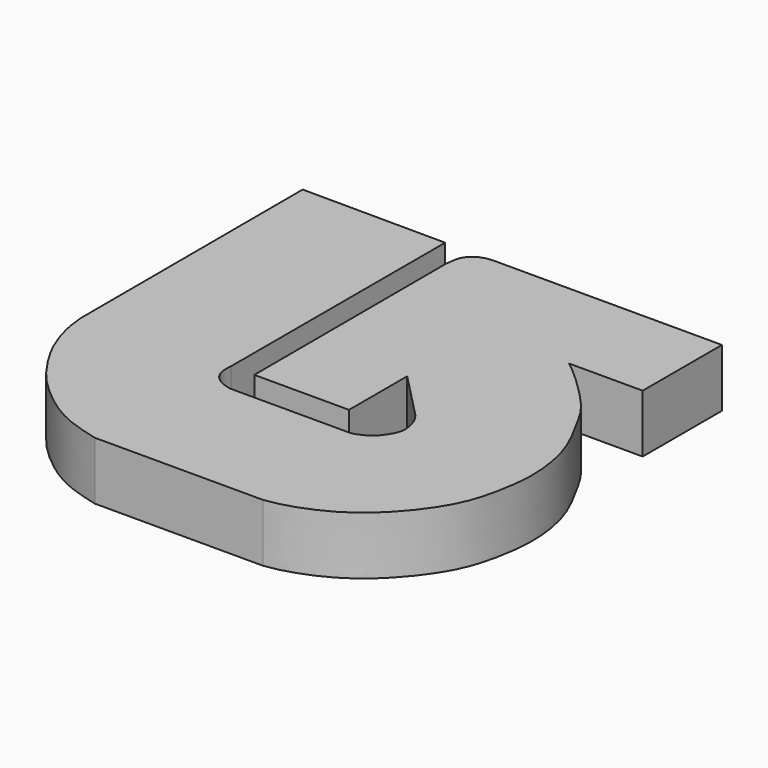
from build123d import *

# Parameters (mm, degrees)
F1_DEPTH = 5


with BuildPart() as f1:
    # F0 (on Top) → F1 (new body)
    with BuildSketch(Plane.XY):
        with BuildLine():
            add(Edge.make_bspline(
                [(11.2681556493, 28.7365261465), (7.1590700342, 28.75634407), (3.0499844191, 28.7761619935), (-1.059101196, 28.795979917)],
                knots=[0, 0, 0, 0, 12.3274002158, 12.3274002158, 12.3274002158, 12.3274002158], degree=3))
            add(Edge.make_bspline(
                [(-1.059101196, 28.795979917), (-1.0446740392, 20.81776876), (-1.0302468824, 12.839557603), (-1.0158197256, 4.861346446)],
                knots=[0, 0, 0, 0, 23.9346726044, 23.9346726044, 23.9346726044, 23.9346726044], degree=3))
            add(Edge.make_bspline(
                [(-1.0158197256, 4.861346446), (-0.962558965, 4.2700737976), (-0.841821032, 2.929705455), (0.1625473106, 0.0673154262), (1.7097202715, -2.3059018854), (2.9855736006, -3.9659866784), (5.5610261871, -6.2075717458), (8.0077108697, -7.5234327243), (9.755875593, -7.9767886526), (10.6165260077, -8.1999832764)],
                knots=[0, 0, 0, 0, 0.1208776861, 0.2740201567, 0.4212126096, 0.5488000736, 0.7093969023, 0.8569312873, 1, 1, 1, 1], degree=3))
            add(Edge.make_bspline(
                [(10.6165260077, -8.1999832764), (15.4520521561, -8.1999832764), (20.2875783046, -8.1999832764), (25.1231044531, -8.1999832764)],
                knots=[0, 0, 0, 0, 14.5065784454, 14.5065784454, 14.5065784454, 14.5065784454], degree=3))
            add(Edge.make_bspline(
                [(25.1231044531, -8.1999832764), (25.6745743252, -8.1126009565), (27.0031296821, -7.9020867379), (30.4249550186, -6.5067364992), (33.1441534381, -4.1048236251), (34.9744057878, -1.7348633844), (36.270448498, 0.6652028925), (36.9714622763, 4.1696584768), (37.0702560122, 6.4734598968), (36.7680843684, 8.9010056191), (36.0185178402, 11.247972559), (34.56180813, 13.8198857026), (33.505189661, 15.8938603551), (30.0097325593, 19.2571510261), (29.1015407434, 19.9457075791), (28.7735499442, 20.1943777502)],
                knots=[0, 0, 0, 0, 0.0623032487, 0.1500958058, 0.2384901964, 0.3170738428, 0.3931542584, 0.479330684, 0.5497063894, 0.6202997706, 0.6930755045, 0.7703813003, 0.8432275764, 0.943382101, 1, 1, 1, 1], degree=3))
            add(Edge.make_bspline(
                [(28.7735499442, 20.1943777502), (30.8920691411, 20.1943777502), (33.010588338, 20.1943777502), (35.1291075349, 20.1943777502)],
                knots=[0, 0, 0, 0, 6.3555575907, 6.3555575907, 6.3555575907, 6.3555575907], degree=3))
            add(Edge.make_bspline(
                [(35.1291075349, 20.1943777502), (35.1291075349, 23.0417605489), (35.1291075349, 25.8891433477), (35.1291075349, 28.7365261465)],
                knots=[0, 0, 0, 0, 8.5421483964, 8.5421483964, 8.5421483964, 8.5421483964], degree=3))
            add(Edge.make_bspline(
                [(35.1291075349, 28.7365261465), (28.5597552235, 28.7365261465), (21.9904029121, 28.7365261465), (15.4210506007, 28.7365261465)],
                knots=[0, 0, 0, 0, 19.7080569342, 19.7080569342, 19.7080569342, 19.7080569342], degree=3))
            add(Edge.make_bspline(
                [(15.4210506007, 28.7365261465), (15.2557474204, 28.7248080838), (14.9013852559, 28.6996879497), (14.2492396547, 28.4997481494), (13.7238917077, 28.0605445077), (13.356028905, 27.5208581891), (13.276128959, 26.7729025691), (13.2297091186, 26.338359341)],
                knots=[0, 0, 0, 0, 0.1694404778, 0.3632313325, 0.5556819896, 0.7418625151, 1, 1, 1, 1], degree=3))
            add(Edge.make_bspline(
                [(13.2297091186, 26.338359341), (13.2451823987, 19.4470849819), (13.2606556788, 12.5558106229), (13.276128959, 5.6645362638)],
                knots=[0, 0, 0, 0, 20.6738751914, 20.6738751914, 20.6738751914, 20.6738751914], degree=3))
            add(Edge.make_bspline(
                [(13.276128959, 5.6645362638), (15.9967516388, 5.6645362638), (18.7173743186, 5.6645362638), (21.4379969984, 5.6645362638)],
                knots=[0, 0, 0, 0, 8.1618680395, 8.1618680395, 8.1618680395, 8.1618680395], degree=3))
            add(Edge.make_bspline(
                [(21.4379969984, 5.6645362638), (21.4379969984, 7.755285129), (21.4379969984, 9.8460339941), (21.4379969984, 11.9367828593)],
                knots=[0, 0, 0, 0, 6.2722465955, 6.2722465955, 6.2722465955, 6.2722465955], degree=3))
            add(Edge.make_bspline(
                [(21.4379969984, 11.9367828593), (22.772507742, 10.5662041654), (24.1070184857, 9.1956254716), (25.4415292293, 7.8250467777)],
                knots=[0, 0, 0, 0, 5.7388713113, 5.7388713113, 5.7388713113, 5.7388713113], degree=3))
            add(Edge.make_bspline(
                [(25.4415292293, 7.8250467777), (25.5297276514, 7.7035809656), (25.7107018832, 7.4543454181), (25.946449318, 6.9992047008), (26.0458302499, 6.5762286293), (26.1669398581, 6.136626052), (26.1879899528, 5.4638606404), (25.9367242281, 4.8486600531), (25.4728523647, 4.1185161554), (24.9385585101, 3.6122505365), (24.4727554455, 3.3847876337), (23.9721447658, 3.1393439998), (23.7195279791, 3.1038511305), (23.6061308533, 3.0879187398)],
                knots=[0, 0, 0, 0, 0.0827643343, 0.1698240337, 0.2497326718, 0.3320452687, 0.4304555828, 0.5301621051, 0.6440225092, 0.7480480213, 0.8362417232, 0.9264905624, 1, 1, 1, 1], degree=3))
            add(Edge.make_bspline(
                [(23.6061308533, 3.0879187398), (20.1473236084, 3.0879187398), (16.6885163635, 3.0879187398), (13.2297091186, 3.0879187398)],
                knots=[0, 0, 0, 0, 10.3764217347, 10.3764217347, 10.3764217347, 10.3764217347], degree=3))
            add(Edge.make_bspline(
                [(13.2297091186, 3.0879187398), (12.9746281893, 3.1480394774), (12.4512467379, 3.2713967155), (11.6870748455, 3.7596546411), (11.2059101475, 4.5790662249), (11.2467847281, 5.2918588181), (11.2681556493, 5.6645362638)],
                knots=[0, 0, 0, 0, 0.2337240899, 0.4795609525, 0.7278929429, 1, 1, 1, 1], degree=3))
            add(Edge.make_bspline(
                [(11.2681556493, 5.6645362638), (11.2681556493, 13.355199558), (11.2681556493, 21.0458628523), (11.2681556493, 28.7365261465)],
                knots=[0, 0, 0, 0, 23.0719898827, 23.0719898827, 23.0719898827, 23.0719898827], degree=3))
        make_face()
    extrude(amount=F1_DEPTH)


solid = f1.part
